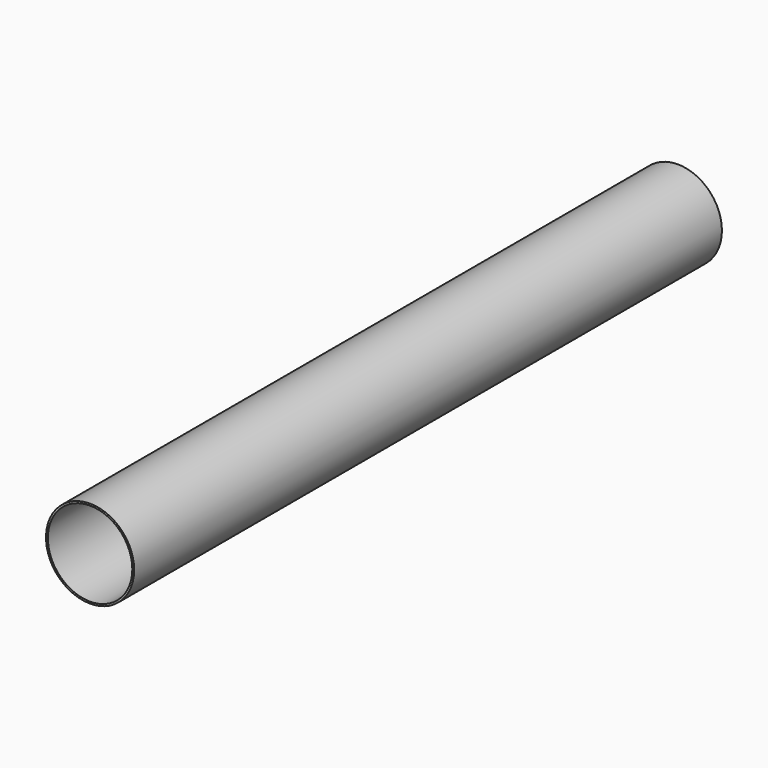
from build123d import *

# Parameters (mm, degrees)
SKETCH_R   = 60
SKETCH_R_2 = 57.5
PAD_DEPTH  = 1000


with BuildPart() as part:
    # Sketch → Pad (new body)
    with BuildSketch(Plane.XZ):
        Circle(SKETCH_R)
        Circle(SKETCH_R_2, mode=Mode.SUBTRACT)
    extrude(amount=PAD_DEPTH)


solid = part.part
